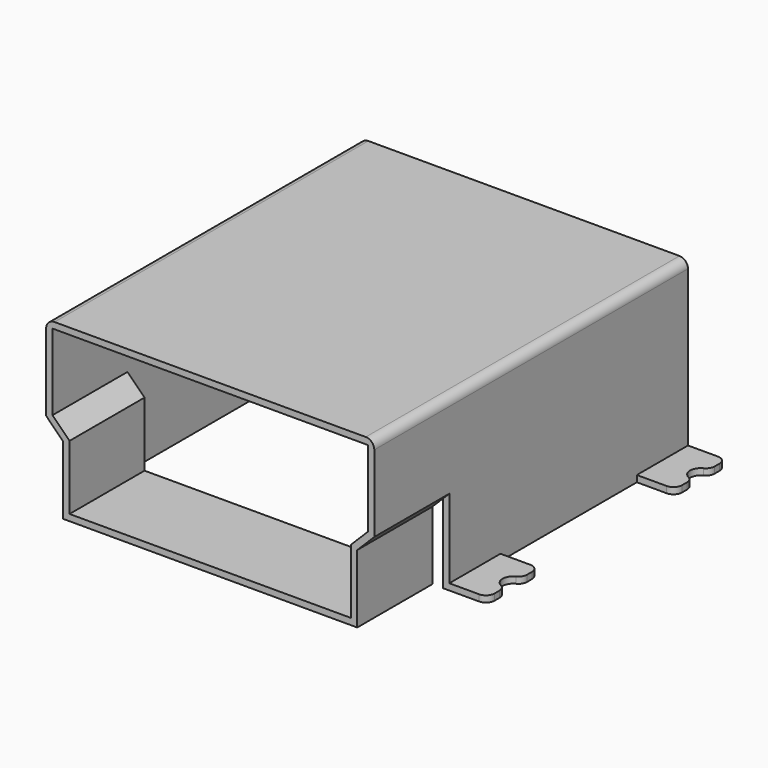
from build123d import *

# Parameters (mm, degrees)
BOX_W                  = 7.4
BOX_H                  = 7
BOX_DEPTH              = 0.2
BOX015_W               = 0.8
BOX015_H               = 9.4
BOX015_DEPTH           = 0.8
BOX015_PLACEMENT_ANGLE = 225
BOX014_W               = 0.4
BOX014_H               = 2.3
BOX014_DEPTH           = 1.91
BOX017_W               = 0.8
BOX017_H               = 9.4
BOX017_DEPTH           = 0.8
BOX017_PLACEMENT_ANGLE = 45
BOX013_W               = 0.4
BOX013_H               = 2.3
BOX013_DEPTH           = 1.91
BOX018_W               = 7.4
BOX018_H               = 9.4
BOX018_DEPTH           = 3.7
CYLINDER004_R          = 0.25
CYLINDER004_DEPTH      = 0.17
BOX024_W               = 0.9
BOX024_H               = 1.5
BOX024_DEPTH           = 0.15
FILLET006_R            = 0.2
CYLINDER006_R          = 0.25
CYLINDER006_DEPTH      = 0.17
BOX025_W               = 0.9
BOX025_H               = 1.5
BOX025_DEPTH           = 0.15
FILLET007_R            = 0.2
CYLINDER005_R          = 0.25
CYLINDER005_DEPTH      = 0.17
BOX026_W               = 0.9
BOX026_H               = 1.5
BOX026_DEPTH           = 0.15
FILLET008_R            = 0.2
CYLINDER007_R          = 0.25
CYLINDER007_DEPTH      = 0.17
BOX027_W               = 0.9
BOX027_H               = 1.5
BOX027_DEPTH           = 0.15
FILLET005_R            = 0.2
BOX023_W               = 0.8
BOX023_H               = 2.2
BOX023_DEPTH           = 0.8
BOX023_PLACEMENT_ANGLE = 45
BOX022_W               = 0.4
BOX022_H               = 2.2
BOX022_DEPTH           = 2
BOX020_W               = 0.8
BOX020_H               = 2.2
BOX020_DEPTH           = 0.8
BOX020_PLACEMENT_ANGLE = 45
BOX021_W               = 0.4
BOX021_H               = 2.2
BOX021_DEPTH           = 2
BOX019_W               = 7.7
BOX019_H               = 9.2
BOX019_DEPTH           = 4
FILLET009_R            = 0.2


with BuildPart() as cube:
    # Box → Box (new body)
    with BuildSketch(Plane(origin=(0.15, 2.2, -0.01), x_dir=(1, 0, 0), z_dir=(0, 0, 1))):
        with Locations((3.7, 3.5)):
            Rectangle(BOX_W, BOX_H)
    extrude(amount=BOX_DEPTH)


with BuildPart() as cube011:
    # Box015 → Box015 (new body)
    with BuildSketch(Plane.XY):
        with Locations((0.4, 4.7)):
            Rectangle(BOX015_W, BOX015_H)
    extrude(amount=BOX015_DEPTH)


with BuildPart() as cube011_1:
    # Box015 placement: moved
    add(cube011.part.moved(Location((7.4, -0.1, 2.06))).rotate(Axis((7.4, -0.1, 2.06), (0, 1, 0)), BOX015_PLACEMENT_ANGLE))


with BuildPart() as cut013:
    # Box014 → Box014 (new body)
    with BuildSketch(Plane(origin=(7, -0.1, 0.15), x_dir=(1, 0, 0), z_dir=(0, 0, 1))):
        with Locations((0.2, 1.15)):
            Rectangle(BOX014_W, BOX014_H)
    extrude(amount=BOX014_DEPTH)

    # Cut013: cut Cube011
    add(cube011_1.part, mode=Mode.SUBTRACT)


with BuildPart() as cut013_1:
    # Cut013 placement: moved
    add(cut013.part.moved(Location((0.15, 0, 0))))


with BuildPart() as cube013:
    # Box017 → Box017 (new body)
    with BuildSketch(Plane.XY):
        with Locations((0.4, 4.7)):
            Rectangle(BOX017_W, BOX017_H)
    extrude(amount=BOX017_DEPTH)


with BuildPart() as cube013_1:
    # Box017 placement: moved
    add(cube013.part.moved(Location((0.15, -0.1, 2.06))).rotate(Axis((0.15, -0.1, 2.06), (0, 1, 0)), BOX017_PLACEMENT_ANGLE))


with BuildPart() as cut022:
    # Box013 → Box013 (new body)
    with BuildSketch(Plane(origin=(0.15, -0.1, 0.15), x_dir=(1, 0, 0), z_dir=(0, 0, 1))):
        with Locations((0.2, 1.15)):
            Rectangle(BOX013_W, BOX013_H)
    extrude(amount=BOX013_DEPTH)

    # Cut022: cut Cube013
    add(cube013_1.part, mode=Mode.SUBTRACT)


with BuildPart() as cut024:
    # Box018 → Box018 (new body)
    with BuildSketch(Plane(origin=(0.15, -0.1, 0.15), x_dir=(1, 0, 0), z_dir=(0, 0, 1))):
        with Locations((3.7, 4.7)):
            Rectangle(BOX018_W, BOX018_H)
    extrude(amount=BOX018_DEPTH)

    # Cut023: cut Cut022
    add(cut022.part, mode=Mode.SUBTRACT)

    # Cut024: cut Cut013
    add(cut013_1.part, mode=Mode.SUBTRACT)


with BuildPart() as cylinder004:
    # Cylinder004 → Cylinder004 (new body)
    with BuildSketch(Plane(origin=(-0.9, 2.95, -0.01), x_dir=(1, 0, 0), z_dir=(0, 0, 1))):
        Circle(CYLINDER004_R)
    extrude(amount=CYLINDER004_DEPTH)


with BuildPart() as foot012:
    # Box024 → Box024 (new body)
    with BuildSketch(Plane(origin=(-0.9, 2.2, 0), x_dir=(1, 0, 0), z_dir=(0, 0, 1))):
        with Locations((0.45, 0.75)):
            Rectangle(BOX024_W, BOX024_H)
    extrude(amount=BOX024_DEPTH)

    # Cut021: cut Cylinder004
    add(cylinder004.part, mode=Mode.SUBTRACT)

    # Fillet006
    fillet006_edges = [foot012.edges().sort_by_distance(p)[0] for p in [
        (-0.9, 2.7, 0.075),
        (-0.9, 2.2, 0.075),
        (-0.9, 3.2, 0.075),
        (-0.9, 3.7, 0.075),
    ]]
    fillet(fillet006_edges, radius=FILLET006_R)


with BuildPart() as cylinder006:
    # Cylinder006 → Cylinder006 (new body)
    with BuildSketch(Plane(origin=(-0.9, 8.45, -0.01), x_dir=(1, 0, 0), z_dir=(0, 0, 1))):
        Circle(CYLINDER006_R)
    extrude(amount=CYLINDER006_DEPTH)


with BuildPart() as foot013:
    # Box025 → Box025 (new body)
    with BuildSketch(Plane(origin=(-0.9, 7.7, 0), x_dir=(1, 0, 0), z_dir=(0, 0, 1))):
        with Locations((0.45, 0.75)):
            Rectangle(BOX025_W, BOX025_H)
    extrude(amount=BOX025_DEPTH)

    # Cut016: cut Cylinder006
    add(cylinder006.part, mode=Mode.SUBTRACT)

    # Fillet007
    fillet007_edges = [foot013.edges().sort_by_distance(p)[0] for p in [
        (-0.9, 8.2, 0.075),
        (-0.9, 7.7, 0.075),
        (-0.9, 8.7, 0.075),
        (-0.9, 9.2, 0.075),
    ]]
    fillet(fillet007_edges, radius=FILLET007_R)


with BuildPart() as cylinder005:
    # Cylinder005 → Cylinder005 (new body)
    with BuildSketch(Plane(origin=(8.6, 2.95, -0.01), x_dir=(1, 0, 0), z_dir=(0, 0, 1))):
        Circle(CYLINDER005_R)
    extrude(amount=CYLINDER005_DEPTH)


with BuildPart() as foot014:
    # Box026 → Box026 (new body)
    with BuildSketch(Plane(origin=(7.7, 2.2, 0), x_dir=(1, 0, 0), z_dir=(0, 0, 1))):
        with Locations((0.45, 0.75)):
            Rectangle(BOX026_W, BOX026_H)
    extrude(amount=BOX026_DEPTH)

    # Cut014: cut Cylinder005
    add(cylinder005.part, mode=Mode.SUBTRACT)

    # Fillet008
    fillet008_edges = [foot014.edges().sort_by_distance(p)[0] for p in [
        (8.6, 2.2, 0.075),
        (8.6, 3.7, 0.075),
        (8.6, 2.7, 0.075),
        (8.6, 3.2, 0.075),
    ]]
    fillet(fillet008_edges, radius=FILLET008_R)


with BuildPart() as cylinder007:
    # Cylinder007 → Cylinder007 (new body)
    with BuildSketch(Plane(origin=(8.6, 8.45, -0.01), x_dir=(1, 0, 0), z_dir=(0, 0, 1))):
        Circle(CYLINDER007_R)
    extrude(amount=CYLINDER007_DEPTH)


with BuildPart() as foot009:
    # Box027 → Box027 (new body)
    with BuildSketch(Plane(origin=(7.7, 7.7, 0), x_dir=(1, 0, 0), z_dir=(0, 0, 1))):
        with Locations((0.45, 0.75)):
            Rectangle(BOX027_W, BOX027_H)
    extrude(amount=BOX027_DEPTH)

    # Cut015: cut Cylinder007
    add(cylinder007.part, mode=Mode.SUBTRACT)

    # Fillet005
    fillet005_edges = [foot009.edges().sort_by_distance(p)[0] for p in [
        (8.6, 7.7, 0.075),
        (8.6, 9.2, 0.075),
        (8.6, 8.2, 0.075),
        (8.6, 8.7, 0.075),
    ]]
    fillet(fillet005_edges, radius=FILLET005_R)


with BuildPart() as cube019:
    # Box023 → Box023 (new body)
    with BuildSketch(Plane.XY):
        with Locations((0.4, 1.1)):
            Rectangle(BOX023_W, BOX023_H)
    extrude(amount=BOX023_DEPTH)


with BuildPart() as cube019_1:
    # Box023 placement: moved
    add(cube019.part.moved(Location((0, 0, 2))).rotate(Axis((0, 0, 2), (0, 1, 0)), BOX023_PLACEMENT_ANGLE))


with BuildPart() as right_side_cutout001:
    # Box022 → Box022 (new body)
    with BuildSketch(Plane.XY):
        with Locations((0.2, 1.1)):
            Rectangle(BOX022_W, BOX022_H)
    extrude(amount=BOX022_DEPTH)

    # Cut018: cut Cube019
    add(cube019_1.part, mode=Mode.SUBTRACT)


with BuildPart() as right_side_cutout001_1:
    # Cut018 placement: moved
    add(right_side_cutout001.part.moved(Location((7.7, 0, 0))))


with BuildPart() as part_mirroring001:
    # Part__Mirroring001: instance of Right Side Cutout001
    add(right_side_cutout001_1.part.mirror(Plane(origin=(7.7, 0, 0), x_dir=(0, -1, 0), z_dir=(1, 0, 0))))


with BuildPart() as cube016:
    # Box020 → Box020 (new body)
    with BuildSketch(Plane.XY):
        with Locations((0.4, 1.1)):
            Rectangle(BOX020_W, BOX020_H)
    extrude(amount=BOX020_DEPTH)


with BuildPart() as cube016_1:
    # Box020 placement: moved
    add(cube016.part.moved(Location((0, 0, 2))).rotate(Axis((0, 0, 2), (0, 1, 0)), BOX020_PLACEMENT_ANGLE))


with BuildPart() as left_side_cutout001:
    # Box021 → Box021 (new body)
    with BuildSketch(Plane.XY):
        with Locations((0.2, 1.1)):
            Rectangle(BOX021_W, BOX021_H)
    extrude(amount=BOX021_DEPTH)

    # Cut020: cut Cube016
    add(cube016_1.part, mode=Mode.SUBTRACT)


with BuildPart() as metal_shell:
    # Box019 → Box019 (new body)
    with BuildSketch(Plane.XY):
        with Locations((3.85, 4.6)):
            Rectangle(BOX019_W, BOX019_H)
    extrude(amount=BOX019_DEPTH)

    # Cut019: cut Left Side Cutout001
    add(left_side_cutout001.part, mode=Mode.SUBTRACT)

    # Cut017: cut Part__Mirroring001
    add(part_mirroring001.part, mode=Mode.SUBTRACT)

    # Fillet009
    fillet009_edges = [metal_shell.edges().sort_by_distance(p)[0] for p in [
        (0, 4.6, 4),
        (7.7, 4.6, 4),
    ]]
    fillet(fillet009_edges, radius=FILLET009_R)

    # Fusion001: union Foot012, Foot013, Foot014, Foot009
    add(foot012.part)
    add(foot013.part)
    add(foot014.part)
    add(foot009.part)

    # Cut025: cut Cut024
    add(cut024.part, mode=Mode.SUBTRACT)

    # Cut: cut Cube
    add(cube.part, mode=Mode.SUBTRACT)


solid = metal_shell.part
